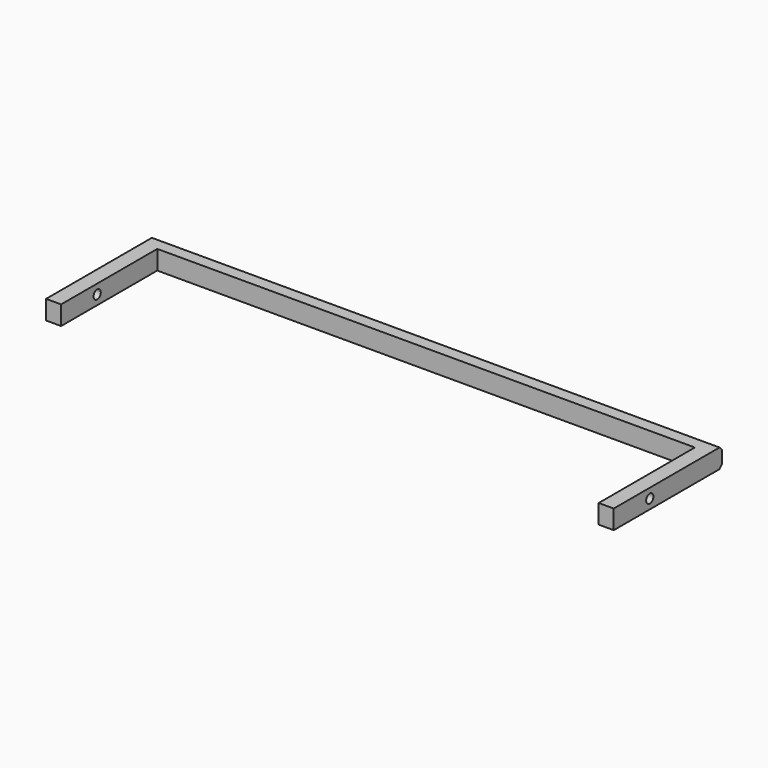
from build123d import *

# Parameters (mm, degrees)
F1_DEPTH = 3.175
F3_D     = 3
F4_SIZE2 = 1
F4_SIZE  = 1
F5_SIZE2 = 1
F5_SIZE  = 1


with BuildPart() as f1:
    # F0 (on Top) → F1 (new body, symmetric)
    with BuildSketch(Plane.XY):
        Polygon((94.45, -22.5), (94.45, 22.5), (-94.45, 22.5), (-94.45, -22.5), (-89.45, -22.5), (-89.45, -15.1735553518), (-89.45, 15.1735553518), (-89.45, 17.5), (89.45, 17.5), (89.45, 15.1735553518), (89.45, -15.1735553518), (89.45, -22.5), align=None)
    extrude(amount=F1_DEPTH, both=True)

    # F3 (through all)
    with Locations(Plane(origin=(-94.45, 0, 0), x_dir=(0, -1, 0), z_dir=(-1, 0, 0))):
        with Locations((7.5, 0)):
            Hole(F3_D / 2)

    # F4
    f4_edges = [f1.edges().sort_by_distance(p)[0] for p in [
        (0, 22.5, 3.175),
    ]]
    chamfer(f4_edges, length=F4_SIZE, length2=F4_SIZE2)

    # F5
    f5_edges = [f1.edges().sort_by_distance(p)[0] for p in [
        (0, 22.5, -3.175),
    ]]
    chamfer(f5_edges, length=F5_SIZE, length2=F5_SIZE2)


solid = f1.part
